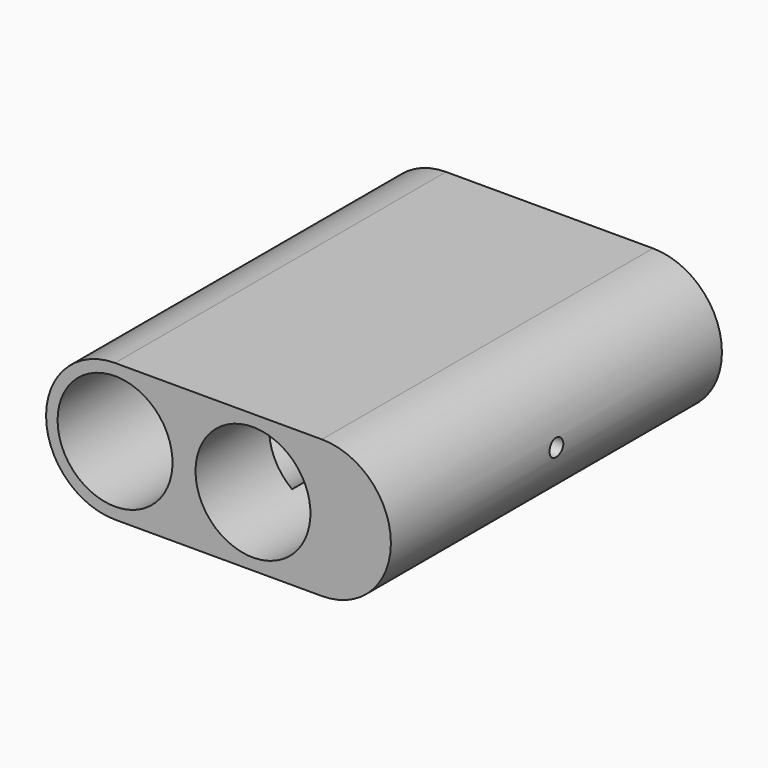
from build123d import *

# Parameters (mm, degrees)
F1_DEPTH      = 360
F2_R          = 7.5
F3_DEPTH      = 60.001
F3_DEPTH_BACK = 240.001
F4_START      = 280
F4_DEPTH      = 80
F5_DEPTH      = 80


with BuildPart() as f1:
    # F0 (on Front) → F1 (new body)
    with BuildSketch(Plane.XZ):
        with BuildLine():
            Line((180, 60), (0, 60))
            ThreePointArc((0, 60), (-60, 0), (0, -60))
            Line((0, -60), (180, -60))
            ThreePointArc((180, -60), (240, 0), (180, 60))
        make_face()
        with BuildLine():
            ThreePointArc((30, -40), (-50, 0), (30, 40))
            ThreePointArc((30, 40), (60, 50), (90, 40))
            ThreePointArc((90, 40), (120, 50), (150, 40))
            ThreePointArc((150, 40), (202.360679775, 44.72135955), (230, 0))
            ThreePointArc((230, 0), (202.360679775, -44.72135955), (150, -40))
            ThreePointArc((150, -40), (120, -50), (90, -40))
            ThreePointArc((90, -40), (60, -50), (30, -40))
        make_face(mode=Mode.SUBTRACT)
    extrude(amount=F1_DEPTH)

    # F2 (on Right) → F3 (cut, two sides)
    with BuildSketch(Plane.YZ) as f3_sk:
        with Locations((-180, 0)):
            Circle(F2_R)
    extrude(amount=-F3_DEPTH, mode=Mode.SUBTRACT)
    extrude(f3_sk.sketch, amount=F3_DEPTH_BACK, mode=Mode.SUBTRACT)

    # F0 (on Front) → F4 (join)
    with BuildSketch(Plane.XZ.offset(F4_START)):
        with BuildLine():
            ThreePointArc((30, 40), (44.72135955, 22.360679775), (50, 0))
            Line((50, 0), (60, 0))
            Line((60, 0), (70, 0))
            ThreePointArc((70, 0), (75.27864045, 22.360679775), (90, 40))
            ThreePointArc((90, 40), (60, 50), (30, 40))
        make_face()
        with BuildLine():
            Line((60, 0), (50, 0))
            ThreePointArc((50, 0), (44.72135955, -22.360679775), (30, -40))
            ThreePointArc((30, -40), (60, -50), (90, -40))
            ThreePointArc((90, -40), (75.27864045, -22.360679775), (70, 0))
            Line((70, 0), (60, 0))
        make_face()
        with BuildLine():
            ThreePointArc((230, 0), (202.360679775, 44.72135955), (150, 40))
            ThreePointArc((150, 40), (164.72135955, 22.360679775), (170, 0))
            ThreePointArc((170, 0), (164.72135955, -22.360679775), (150, -40))
            ThreePointArc((150, -40), (202.360679775, -44.72135955), (230, 0))
        make_face()
    extrude(amount=F4_DEPTH)

    # F0 (on Front) → F5 (join)
    with BuildSketch(Plane.XZ):
        with BuildLine():
            ThreePointArc((10, 0), (15.27864045, 22.360679775), (30, 40))
            ThreePointArc((30, 40), (-50, 0), (30, -40))
            ThreePointArc((30, -40), (15.27864045, -22.360679775), (10, 0))
        make_face()
        with BuildLine():
            ThreePointArc((150, 40), (120, 50), (90, 40))
            ThreePointArc((90, 40), (104.72135955, 22.360679775), (110, 0))
            Line((110, 0), (120, 0))
            Line((120, 0), (130, 0))
            ThreePointArc((130, 0), (135.27864045, 22.360679775), (150, 40))
        make_face()
        with BuildLine():
            ThreePointArc((110, 0), (104.72135955, -22.360679775), (90, -40))
            ThreePointArc((90, -40), (120, -50), (150, -40))
            ThreePointArc((150, -40), (135.27864045, -22.360679775), (130, 0))
            Line((130, 0), (120, 0))
            Line((120, 0), (110, 0))
        make_face()
    extrude(amount=F5_DEPTH)


solid = f1.part
